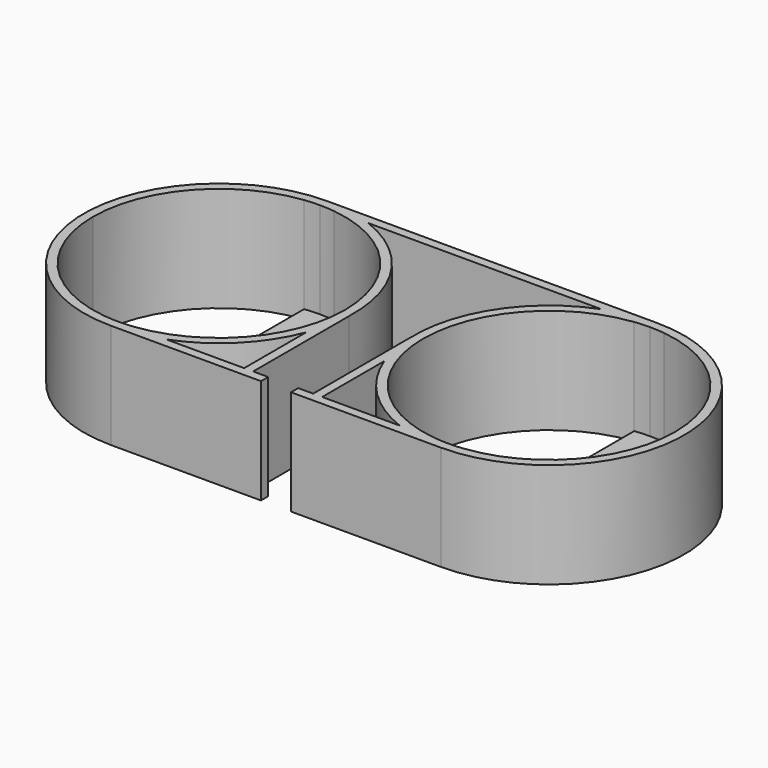
from build123d import *

# Parameters (mm, degrees)
F0_W     = 5
F0_H     = 3
F1_DEPTH = 35
F2_DEPTH = 3


with BuildPart() as f1:
    # F0 (on Top) → F1 (new body)
    with BuildSketch(Plane.XY):
        with Locations((7.5, 1.5)):
            Rectangle(F0_W, F0_H)
        with BuildLine():
            Line((10, 3), (10, 0))
            Line((10, 0), (55, 0))
            ThreePointArc((55, 0), (46.7841616374, 0.7563563887), (38.8445055786, 3))
            Line((38.8445055786, 3), (13, 3))
            Line((13, 3), (10, 3))
        make_face()
        with BuildLine():
            Line((10, 43), (10, 3))
            Line((10, 3), (13, 3))
            Line((13, 3), (13, 28.8445055786))
            ThreePointArc((13, 28.8445055786), (10.9499068005, 35.8027564392), (10.044466414, 43))
            Line((10.044466414, 43), (10, 43))
        make_face()
        with BuildLine():
            ThreePointArc((38.8445055786, 3), (46.7841616374, 0.7563563887), (55, 0))
            Line((55, 0), (55, 3))
            Line((55, 3), (38.8445055786, 3))
        make_face()
        with BuildLine():
            Line((38.8445055786, 3), (55, 3))
            ThreePointArc((55, 3), (52.4955434529, 3.074736764), (50, 3.298681076))
            ThreePointArc((50, 3.298681076), (13, 45), (50, 86.701318924))
            ThreePointArc((50, 86.701318924), (52.4955434529, 86.925263236), (55, 87))
            Line((55, 87), (38.8445055786, 87))
            ThreePointArc((38.8445055786, 87), (17.3484470967, 69.6446863232), (10.044466414, 43))
            Line((10.044466414, 43), (13, 43))
            Line((13, 43), (13, 28.8445055786))
            ThreePointArc((13, 28.8445055786), (23.1801948466, 13.1801948466), (38.8445055786, 3))
        make_face()
        with BuildLine():
            Line((55, 3), (55, 0))
            ThreePointArc((55, 0), (86.8198051534, 13.1801948466), (100, 45))
            ThreePointArc((100, 45), (86.8198051534, 76.8198051534), (55, 90))
            Line((55, 90), (55, 87))
            ThreePointArc((55, 87), (57.5044565471, 86.925263236), (60, 86.701318924))
            ThreePointArc((60, 86.701318924), (86.4165561448, 72.8747197295), (97, 45))
            ThreePointArc((97, 45), (86.4165561448, 17.1252802705), (60, 3.298681076))
            ThreePointArc((60, 3.298681076), (57.5044565471, 3.074736764), (55, 3))
        make_face()
        with BuildLine():
            Line((55, 87), (55, 90))
            ThreePointArc((55, 90), (46.7841616374, 89.2436436113), (38.8445055786, 87))
            Line((38.8445055786, 87), (55, 87))
        make_face()
        with BuildLine():
            ThreePointArc((38.8445055786, 87), (46.7841616374, 89.2436436113), (55, 90))
            Line((55, 90), (0, 90))
            Line((0, 90), (0, 87))
            Line((0, 87), (38.8445055786, 87))
        make_face()
        with BuildLine():
            ThreePointArc((10.044466414, 43), (10.9499068005, 35.8027564392), (13, 28.8445055786))
            Line((13, 28.8445055786), (13, 43))
            Line((13, 43), (10.044466414, 43))
        make_face()
    extrude(amount=F1_DEPTH)

    # F0 (on Top) → F2 (join)
    with BuildSketch(Plane.XY):
        with BuildLine():
            Line((50, 45), (55, 45))
            Line((55, 45), (55, 87))
            ThreePointArc((55, 87), (52.4955434529, 86.925263236), (50, 86.701318924))
            Line((50, 86.701318924), (50, 45))
        make_face()
        with BuildLine():
            Line((55, 87), (55, 45))
            Line((55, 45), (60, 45))
            Line((60, 45), (60, 86.701318924))
            ThreePointArc((60, 86.701318924), (57.5044565471, 86.925263236), (55, 87))
        make_face()
        with BuildLine():
            ThreePointArc((50, 3.298681076), (52.4955434529, 3.074736764), (55, 3))
            Line((55, 3), (55, 45))
            Line((55, 45), (50, 45))
            Line((50, 45), (50, 3.298681076))
        make_face()
        with BuildLine():
            Line((55, 45), (55, 3))
            ThreePointArc((55, 3), (57.5044565471, 3.074736764), (60, 3.298681076))
            Line((60, 3.298681076), (60, 45))
            Line((60, 45), (55, 45))
        make_face()
    extrude(amount=F2_DEPTH)

    # F3: F1 across plane


with BuildPart() as f1_1:
    add(f1.part)
    add(f1.part.mirror(Plane.YZ))


solid = f1_1.part
